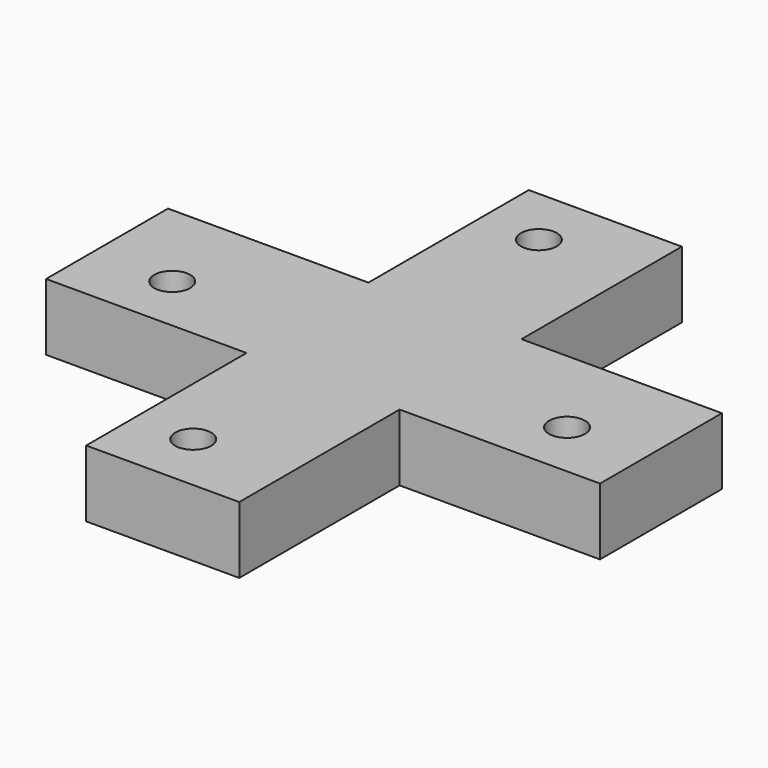
from build123d import *

# Parameters (mm, degrees)
SKETCH_R  = 2.690646
PAD_DEPTH = 10


with BuildPart() as part:
    # Sketch → Pad (new body)
    with BuildSketch(Plane.XY):
        Polygon((11.460379, 11.406271), (11.460379, 41.406271), (-11.460379, 41.406271), (-11.460379, 11.406271), (-41.460379, 11.406271), (-41.460379, -11.406271), (-11.460379, -11.406271), (-11.460379, -41.406271), (11.460379, -41.406271), (11.460379, -11.406271), (41.460379, -11.406271), (41.460379, 11.406271), align=None)
        with Locations((29.550911, -2.690646)):
            Circle(SKETCH_R, mode=Mode.SUBTRACT)
        with Locations((-2.690646, -32.338921)):
            Circle(SKETCH_R, mode=Mode.SUBTRACT)
        with Locations((-29.550911, -2.690646)):
            Circle(SKETCH_R, mode=Mode.SUBTRACT)
        with Locations((-2.690646, 32.338921)):
            Circle(SKETCH_R, mode=Mode.SUBTRACT)
    extrude(amount=PAD_DEPTH)


solid = part.part
